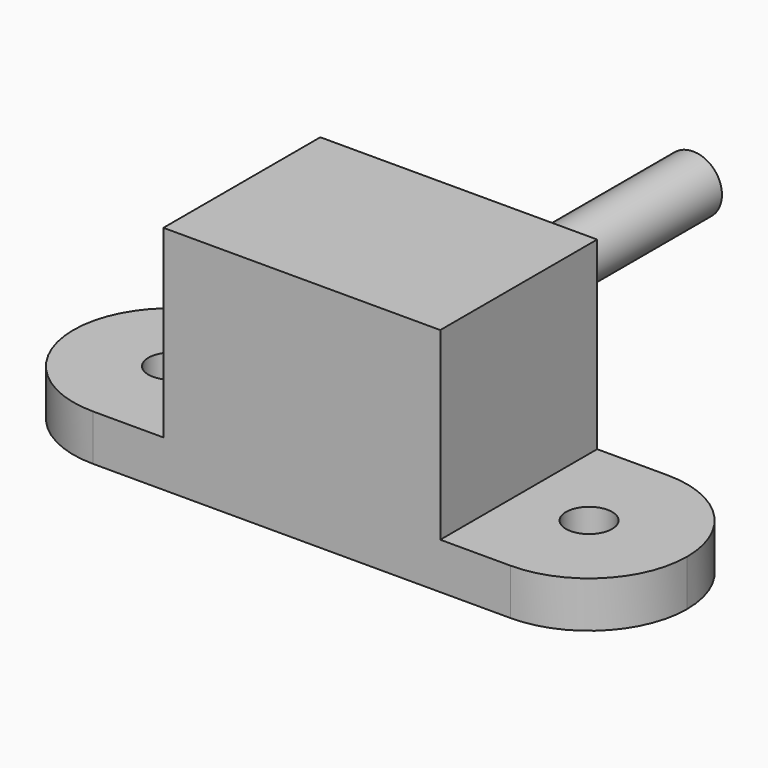
from build123d import *

# Parameters (mm, degrees)
F0_R     = 1
F1_DEPTH = 2
F2_W     = 12
F2_H     = 8.5
F3_DEPTH = 8
F4_R     = 1.25
F5_DEPTH = 12.7


with BuildPart() as f1:
    # F0 (on Top) → F1 (new body)
    with BuildSketch(Plane.XY):
        with BuildLine():
            ThreePointArc((-10.308361, -2.149295), (-9.063565, -5.154499), (-6.058361, -6.399295))
            Line((-6.058361, -6.399295), (12.041639, -6.399295))
            ThreePointArc((12.041639, -6.399295), (15.046843, -5.154499), (16.291639, -2.149295))
            ThreePointArc((16.291639, -2.149295), (15.046843, 0.855909), (12.041639, 2.100705))
            Line((12.041639, 2.100705), (-6.058361, 2.100705))
            ThreePointArc((-6.058361, 2.100705), (-9.063565, 0.855909), (-10.308361, -2.149295))
        make_face()
        with Locations((-6.058361, -2.149295)):
            Circle(F0_R, mode=Mode.SUBTRACT)
        with Locations((12.041639, -2.149295)):
            Circle(F0_R, mode=Mode.SUBTRACT)
    extrude(amount=F1_DEPTH)

    # F2 (on face) → F3 (join)
    with BuildSketch(Plane.XY.offset(2)):
        with Locations((2.991639, -2.149295)):
            Rectangle(F2_W, F2_H)
    extrude(amount=F3_DEPTH)

    # F4 (on face) → F5 (join)
    with BuildSketch(Plane(origin=(0, 2.100705, 0), x_dir=(-1, 0, 0), z_dir=(0, 1, 0))):
        with Locations((-2.991639, 5)):
            Circle(F4_R)
    extrude(amount=F5_DEPTH)


solid = f1.part
